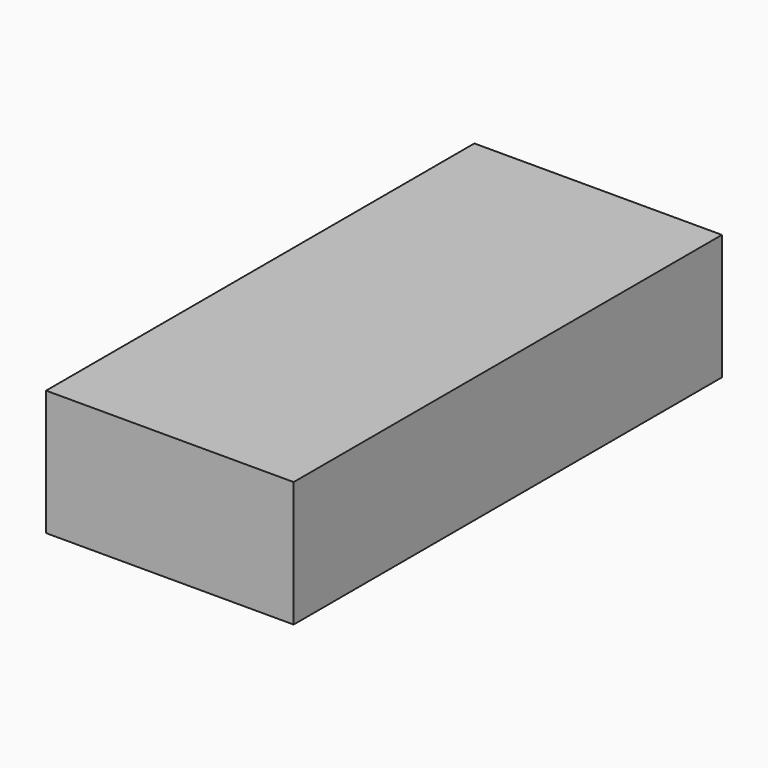
from build123d import *

# Parameters (mm, degrees)
F0_W     = 140.959114
F0_H     = 71.438462
F1_DEPTH = 304.8
F2_W     = 119.863194
F2_H     = 233.014038
F3_DEPTH = 152.4
F4_W     = 35.95896
F4_H     = 35.000048
F5_DEPTH = 254
F6_R     = 11.870693
F7_DEPTH = 304.8


with BuildPart() as f1:
    # F0 (on Front) → F1 (new body)
    with BuildSketch(Plane.XZ):
        Rectangle(F0_W, F0_H)
    extrude(amount=F1_DEPTH)

    # F2 (on Top) → F3 (cut)
    with BuildSketch(Plane.XY):
        with Locations((-0.958899, -124.89744)):
            Rectangle(F2_W, F2_H)
    extrude(amount=-F3_DEPTH, mode=Mode.SUBTRACT)

    # F4 (on Top) → F5 (cut)
    with BuildSketch(Plane.XY):
        with Locations((45.068562, -29.9658)):
            Rectangle(F4_W, F4_H)
    extrude(amount=-F5_DEPTH, mode=Mode.SUBTRACT)

    # F6 (on Front) → F7 (cut)
    with BuildSketch(Plane.XZ):
        with Locations((-40.513758, 16.780848)):
            Circle(F6_R)
    extrude(amount=-F7_DEPTH, mode=Mode.SUBTRACT)


solid = f1.part
